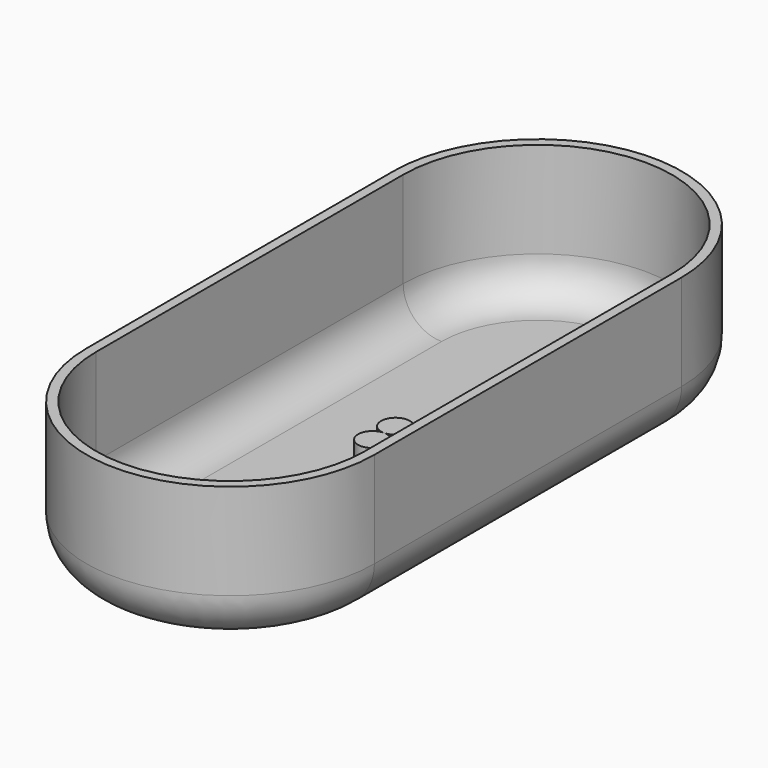
from build123d import *

# Parameters (mm, degrees)
F1_DEPTH = 15
F2_R     = 5
F3_T     = -1
F5_DEPTH = 3


with BuildPart() as f1:
    # F0 (on Top) → F1 (new body)
    with BuildSketch(Plane.XY):
        with BuildLine():
            ThreePointArc((0, -15), (-10.606602, -10.606602), (-15, 0))
            Line((-15, 0), (-15, -40))
            ThreePointArc((-15, -40), (-10.606602, -29.393398), (0, -25))
            Line((0, -25), (0, -15))
        make_face()
        with BuildLine():
            Line((0, 0), (-15, 0))
            ThreePointArc((-15, 0), (-10.606602, -10.606602), (0, -15))
            Line((0, -15), (0, 0))
        make_face()
        with BuildLine():
            ThreePointArc((0, -15), (10.606602, -10.606602), (15, 0))
            Line((15, 0), (0, 0))
            Line((0, 0), (0, -15))
        make_face()
        with BuildLine():
            Line((15, -40), (15, 0))
            ThreePointArc((15, 0), (10.606602, -10.606602), (0, -15))
            Line((0, -15), (0, -25))
            ThreePointArc((0, -25), (10.606602, -29.393398), (15, -40))
        make_face()
        with BuildLine():
            Line((0, -40), (15, -40))
            ThreePointArc((15, -40), (10.606602, -29.393398), (0, -25))
            Line((0, -25), (0, -40))
        make_face()
        with BuildLine():
            ThreePointArc((0, -25), (-10.606602, -29.393398), (-15, -40))
            Line((-15, -40), (0, -40))
            Line((0, -40), (0, -25))
        make_face()
        with BuildLine():
            Line((0, 0), (15, 0))
            ThreePointArc((15, 0), (0, 15), (-15, 0))
            Line((-15, 0), (0, 0))
        make_face()
        with BuildLine():
            Line((0, 0), (15, 0))
            ThreePointArc((15, 0), (0, 15), (-15, 0))
            Line((-15, 0), (0, 0))
        make_face()
        with BuildLine():
            ThreePointArc((-15, -40), (0, -55), (15, -40))
            Line((15, -40), (0, -40))
            Line((0, -40), (-15, -40))
        make_face()
    extrude(amount=F1_DEPTH)

    # F2
    f2_edges = [f1.edges().sort_by_distance(p)[0] for p in [
        (0, 15, 0),
    ]]
    fillet(f2_edges, radius=F2_R)

    # F3
    f3_openings = [f1.faces().sort_by_distance(p)[0] for p in [
        (0, -20, 15),
    ]]
    offset(amount=F3_T, openings=f3_openings)


with BuildPart() as f5:
    # F4 (on face) → F5 (new body)
    with BuildSketch(Plane.XY.offset(1)):
        with BuildLine():
            ThreePointArc((1.5, -18.5), (1.06066, -17.43934), (0, -17))
            Line((0, -17), (0, -18.5))
            Line((0, -18.5), (0, -20))
            ThreePointArc((0, -20), (1.06066, -19.56066), (1.5, -18.5))
        make_face()
        with BuildLine():
            Line((0, -18.5), (0, -17))
            ThreePointArc((0, -17), (-1.5, -18.5), (0, -20))
            Line((0, -20), (0, -18.5))
        make_face()
        with BuildLine():
            ThreePointArc((1.5, -21.5), (1.06066, -20.43934), (0, -20))
            ThreePointArc((0, -20), (-1.06066, -22.56066), (1.5, -21.5))
        make_face()
    extrude(amount=F5_DEPTH)


solid = Compound([f1.part, f5.part])
